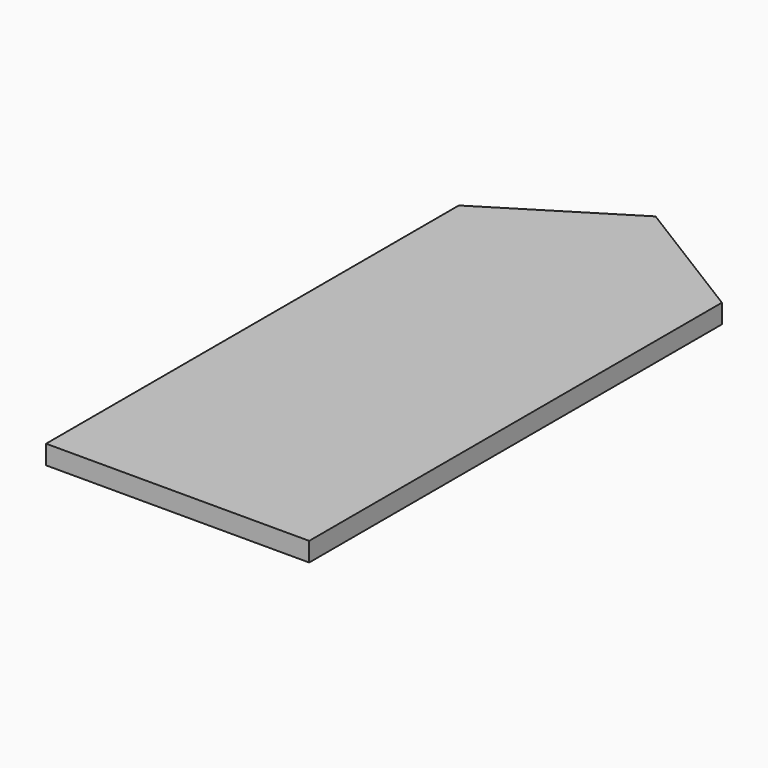
from build123d import *

# Parameters (mm, degrees)
F0_W     = 64.77
F0_H     = 127
F1_DEPTH = 4.699


with BuildPart() as f1:
    # F0 (on Top) → F1 (new body)
    with BuildSketch(Plane.XY):
        Rectangle(F0_W, F0_H)
        Polygon((-32.385, 63.5), (32.385, 63.5), (0, 83.57042), align=None)
    extrude(amount=F1_DEPTH)


solid = f1.part
